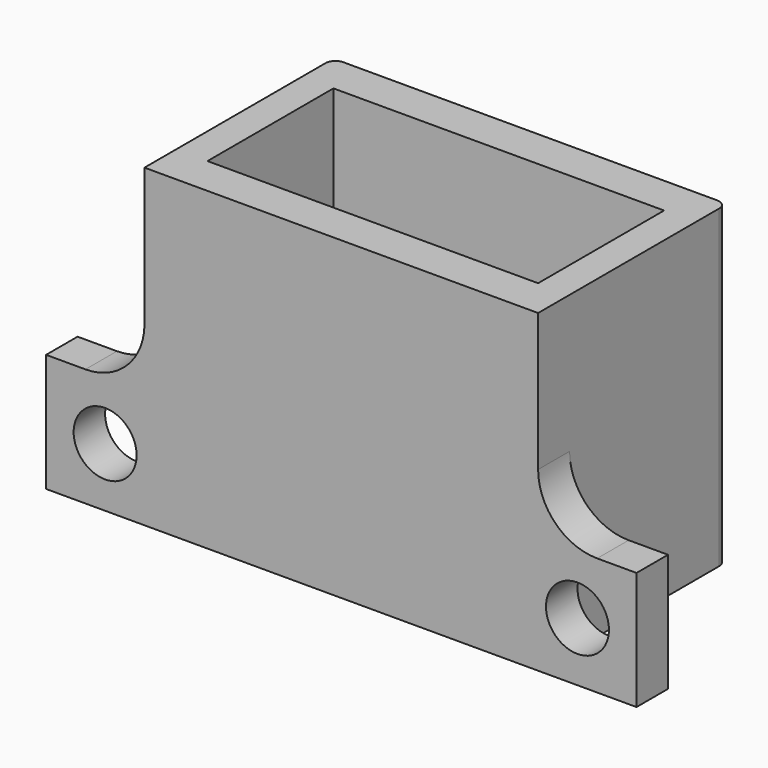
from build123d import *

# Parameters (mm, degrees)
F0_W     = 16.8
F0_H     = 8
F1_DEPTH = 16
F2_R     = 1.6
F3_DEPTH = 25


with BuildPart() as f1:
    # F0 (on Top) → F1 (new body)
    with BuildSketch(Plane.XY):
        with BuildLine():
            Line((-15, 2), (-15, 0))
            Line((-15, 0), (15, 0))
            Line((15, 0), (15, 2))
            Line((15, 2), (10, 2))
            Line((10, 2), (10, 11.5))
            ThreePointArc((10, 11.5), (9.853553, 11.853553), (9.5, 12))
            Line((9.5, 12), (-9.5, 12))
            ThreePointArc((-9.5, 12), (-9.853553, 11.853553), (-10, 11.5))
            Line((-10, 11.5), (-10, 2))
            Line((-10, 2), (-15, 2))
        make_face()
        with Locations((0, 6)):
            Rectangle(F0_W, F0_H, mode=Mode.SUBTRACT)
    extrude(amount=F1_DEPTH)

    # F2 (on face) → F3 (cut)
    with BuildSketch(Plane.XZ):
        with Locations((-12, 3)):
            Circle(F2_R)
        with Locations((12, 3)):
            Circle(F2_R)
        with BuildLine():
            Line((-10, 16), (-15, 16))
            Line((-15, 16), (-15, 6))
            Line((-15, 6), (-13, 6))
            ThreePointArc((-13, 6), (-10.87868, 6.87868), (-10, 9))
            Line((-10, 9), (-10, 16))
        make_face()
        with BuildLine():
            Line((15, 6), (15, 16))
            Line((15, 16), (10, 16))
            Line((10, 16), (10, 9))
            ThreePointArc((10, 9), (10.87868, 6.87868), (13, 6))
            Line((13, 6), (15, 6))
        make_face()
    extrude(amount=-F3_DEPTH, mode=Mode.SUBTRACT)


solid = f1.part
